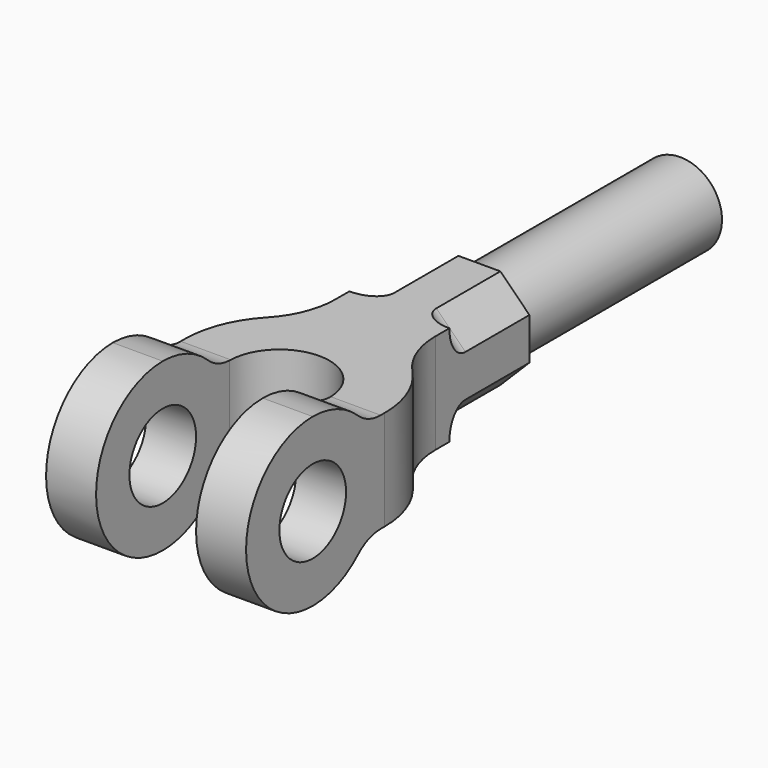
from build123d import *

# Parameters (mm, degrees)
F0_W     = 1200
F0_H     = 2500
F1_DEPTH = 1000
F3_DEPTH = 1000.001
F4_R     = 250
F5_DEPTH = 1200.001
F7_DEPTH = 600
F8_R     = 250
F9_DEPTH = 1507
F10_R    = 120


with BuildPart() as f1:
    # F0 (on Top) → F1 (new body)
    with BuildSketch(Plane.XY):
        with Locations((-600, 1250)):
            Rectangle(F0_W, F0_H)
    extrude(amount=F1_DEPTH)

    # F2 (on face) → F3 (cut, through all)
    with BuildSketch(Plane.XY.offset(1000)):
        with BuildLine():
            Line((-300, 520.3847577293), (-300, 1000))
            ThreePointArc((-300, 1000), (-600, 1300), (-900, 1000))
            Line((-900, 1000), (-900, 520.3847577293))
            ThreePointArc((-900, 520.3847577293), (-600, 440), (-300, 520.3847577293))
        make_face()
        with BuildLine():
            Line((-300, 0), (-300, 520.3847577293))
            ThreePointArc((-300, 520.3847577293), (-600, 440), (-900, 520.3847577293))
            Line((-900, 520.3847577293), (-900, 0))
            Line((-900, 0), (-300, 0))
        make_face()
        with BuildLine():
            Line((-1200, 2500), (-1200, 1039.9999999999))
            ThreePointArc((-1200, 1039.9999999999), (-1157.5922263708, 1261.5646837628), (-1036.3636363636, 1451.8091510148))
            ThreePointArc((-1036.3636363636, 1451.8091510148), (-935.3398113577, 1610.3462070581), (-900, 1794.9834435271))
            Line((-900, 1794.9834435271), (-900, 2500))
            Line((-900, 2500), (-1200, 2500))
        make_face()
        with BuildLine():
            ThreePointArc((-163.6363636364, 1451.8091510148), (-42.4077736292, 1261.5646837628), (0, 1040))
            Line((0, 1040), (0, 2500))
            Line((0, 2500), (-300, 2500))
            Line((-300, 2500), (-300, 1794.9834435271))
            ThreePointArc((-300, 1794.9834435271), (-264.6601886423, 1610.3462070581), (-163.6363636364, 1451.8091510148))
        make_face()
    extrude(amount=-F3_DEPTH, mode=Mode.SUBTRACT)

    # F4 (on face) → F5 (cut, through all)
    with BuildSketch(Plane.YZ):
        with BuildLine():
            ThreePointArc((0, 500), (146.4466094067, 853.5533905933), (500.0000000001, 1000))
            Line((500.0000000001, 1000), (0, 1000))
            Line((0, 1000), (0, 500))
        make_face()
        with BuildLine():
            ThreePointArc((500, 0), (146.4466094067, 146.4466094067), (0, 500))
            Line((0, 500), (0, 0))
            Line((0, 0), (500, 0))
        make_face()
        with BuildLine():
            ThreePointArc((839.9346342395, 133.3333333333), (682.5741858351, 34.5253318744), (500, 0))
            Line((500, 0), (1040, 0))
            Line((1040, 0), (1040, 200))
            Line((1040, 200), (1009.9019513593, 200))
            ThreePointArc((1009.9019513593, 200), (918.6148584418, 182.7373340628), (839.9346342395, 133.3333333333))
        make_face()
        Polygon((2500, 200), (1040, 200), (1040, 0), (1451.8091510148, 0), (1794.9834435271, 0), (2500, 0), align=None)
        with BuildLine():
            ThreePointArc((500.0000000001, 1000), (682.5741858351, 965.4746681256), (839.9346342395, 866.6666666667))
            ThreePointArc((839.9346342395, 866.6666666667), (918.6148584418, 817.2626659372), (1009.9019513593, 800))
            Line((1009.9019513593, 800), (1040, 800))
            Line((1040, 800), (1040, 1000))
            Line((1040, 1000), (500.0000000001, 1000))
        make_face()
        Polygon((1451.8091510148, 1000), (1040, 1000), (1040, 800), (2500, 800), (2500, 1000), (1794.9834435271, 1000), align=None)
        with Locations((500, 500)):
            Circle(F4_R)
    extrude(amount=-F5_DEPTH, mode=Mode.SUBTRACT)

    # F6 (on face) → F7 (cut)
    with BuildSketch(Plane(origin=(0, 2500, 0), x_dir=(-1, 0, 0), z_dir=(0, 1, 0))):
        Polygon((900, 626), (900, 800), (726, 800), align=None)
        Polygon((300, 626), (474, 800), (300, 800), align=None)
        Polygon((474, 200), (300, 374), (300, 200), align=None)
        Polygon((900, 200), (900, 374), (726, 200), align=None)
    extrude(amount=-F7_DEPTH, mode=Mode.SUBTRACT)

    # F8 (on face) → F9 (join)
    with BuildSketch(Plane(origin=(0, 2500, 0), x_dir=(-1, 0, 0), z_dir=(0, 1, 0))):
        with Locations((600, 500)):
            Circle(F8_R)
    extrude(amount=F9_DEPTH)

    # F10
    f10_edges = [f1.edges().sort_by_distance(p)[0] for p in [
        (-813, 1900, 713),
        (-387, 1900, 713),
        (-813, 1900, 287),
        (-387, 1900, 287),
    ]]
    fillet(f10_edges, radius=F10_R)


solid = f1.part
